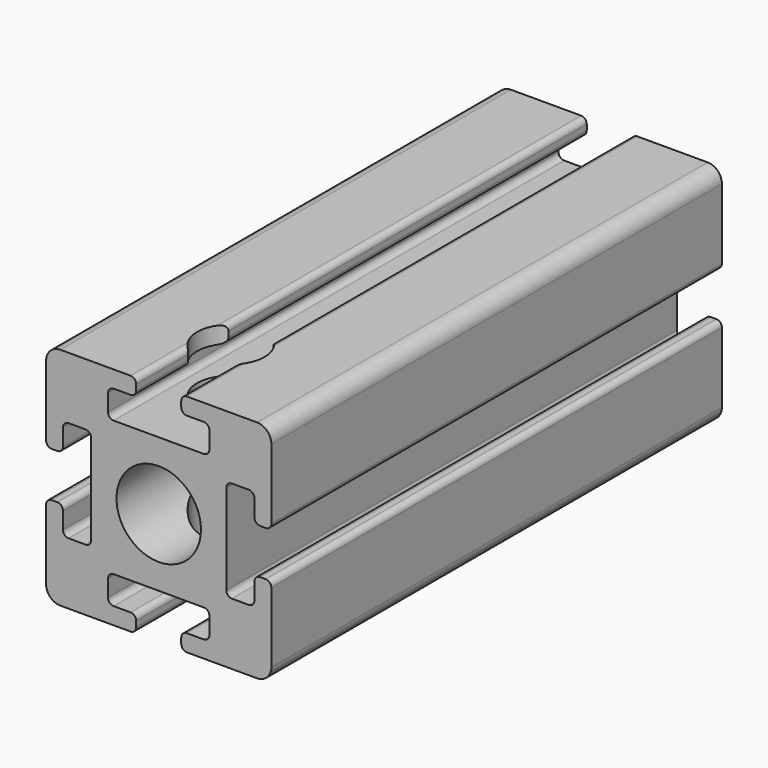
from build123d import *

# Parameters (mm, degrees)
F0_R     = 7.5
F1_DEPTH = 100
F2_R     = 6
F3_DEPTH = 254


with BuildPart() as f1:
    # F0 (on Front) → F1 (new body)
    with BuildSketch(Plane.XZ):
        with BuildLine():
            Line((5, -20), (17.46, -20))
            ThreePointArc((17.46, -20), (19.256051, -19.256051), (20, -17.46))
            Line((20, -17.46), (20, -5))
            ThreePointArc((20, -5), (19.707107, -4.292893), (19, -4))
            Line((19, -4), (18, -4))
            ThreePointArc((18, -4), (17.292893, -4.292893), (17, -5))
            Line((17, -5), (17, -8))
            ThreePointArc((17, -8), (16.707107, -8.707107), (16, -9))
            Line((16, -9), (13, -9))
            ThreePointArc((13, -9), (12.292893, -8.707107), (12, -8))
            Line((12, -8), (12, 0))
            Line((12, 0), (12, 8))
            ThreePointArc((12, 8), (12.292893, 8.707107), (13, 9))
            Line((13, 9), (16, 9))
            ThreePointArc((16, 9), (16.707107, 8.707107), (17, 8))
            Line((17, 8), (17, 5))
            ThreePointArc((17, 5), (17.292893, 4.292893), (18, 4))
            Line((18, 4), (19, 4))
            ThreePointArc((19, 4), (19.707107, 4.292893), (20, 5))
            Line((20, 5), (20, 17.46))
            ThreePointArc((20, 17.46), (19.256051, 19.256051), (17.46, 20))
            Line((17.46, 20), (5, 20))
            ThreePointArc((5, 20), (4.292893, 19.707107), (4, 19))
            Line((4, 19), (4, 18))
            ThreePointArc((4, 18), (4.292893, 17.292893), (5, 17))
            Line((5, 17), (8, 17))
            ThreePointArc((8, 17), (8.707107, 16.707107), (9, 16))
            Line((9, 16), (9, 13))
            ThreePointArc((9, 13), (8.707107, 12.292893), (8, 12))
            Line((8, 12), (0, 12))
            Line((0, 12), (-8, 12))
            ThreePointArc((-8, 12), (-8.707107, 12.292893), (-9, 13))
            Line((-9, 13), (-9, 16))
            ThreePointArc((-9, 16), (-8.707107, 16.707107), (-8, 17))
            Line((-8, 17), (-5, 17))
            ThreePointArc((-5, 17), (-4.292893, 17.292893), (-4, 18))
            Line((-4, 18), (-4, 19))
            ThreePointArc((-4, 19), (-4.292893, 19.707107), (-5, 20))
            Line((-5, 20), (-17.46, 20))
            ThreePointArc((-17.46, 20), (-19.256051, 19.256051), (-20, 17.46))
            Line((-20, 17.46), (-20, 5))
            ThreePointArc((-20, 5), (-19.707107, 4.292893), (-19, 4))
            Line((-19, 4), (-18, 4))
            ThreePointArc((-18, 4), (-17.292893, 4.292893), (-17, 5))
            Line((-17, 5), (-17, 8))
            ThreePointArc((-17, 8), (-16.707107, 8.707107), (-16, 9))
            Line((-16, 9), (-13, 9))
            ThreePointArc((-13, 9), (-12.292893, 8.707107), (-12, 8))
            Line((-12, 8), (-12, 0))
            Line((-12, 0), (-12, -8))
            ThreePointArc((-12, -8), (-12.292893, -8.707107), (-13, -9))
            Line((-13, -9), (-16, -9))
            ThreePointArc((-16, -9), (-16.707107, -8.707107), (-17, -8))
            Line((-17, -8), (-17, -5))
            ThreePointArc((-17, -5), (-17.292893, -4.292893), (-18, -4))
            Line((-18, -4), (-19, -4))
            ThreePointArc((-19, -4), (-19.707107, -4.292893), (-20, -5))
            Line((-20, -5), (-20, -17.46))
            ThreePointArc((-20, -17.46), (-19.256051, -19.256051), (-17.46, -20))
            Line((-17.46, -20), (-5, -20))
            ThreePointArc((-5, -20), (-4.292893, -19.707107), (-4, -19))
            Line((-4, -19), (-4, -18))
            ThreePointArc((-4, -18), (-4.292893, -17.292893), (-5, -17))
            Line((-5, -17), (-8, -17))
            ThreePointArc((-8, -17), (-8.707107, -16.707107), (-9, -16))
            Line((-9, -16), (-9, -13))
            ThreePointArc((-9, -13), (-8.707107, -12.292893), (-8, -12))
            Line((-8, -12), (0, -12))
            Line((0, -12), (8, -12))
            ThreePointArc((8, -12), (8.707107, -12.292893), (9, -13))
            Line((9, -13), (9, -16))
            ThreePointArc((9, -16), (8.707107, -16.707107), (8, -17))
            Line((8, -17), (5, -17))
            ThreePointArc((5, -17), (4.292893, -17.292893), (4, -18))
            Line((4, -18), (4, -19))
            ThreePointArc((4, -19), (4.292893, -19.707107), (5, -20))
        make_face()
        Circle(F0_R, mode=Mode.SUBTRACT)
    extrude(amount=F1_DEPTH)

    # F2 (on face) → F3 (cut)
    with BuildSketch(Plane.XY.offset(20)):
        with Locations((0, -84)):
            Circle(F2_R)
    extrude(amount=-F3_DEPTH, mode=Mode.SUBTRACT)


solid = f1.part
